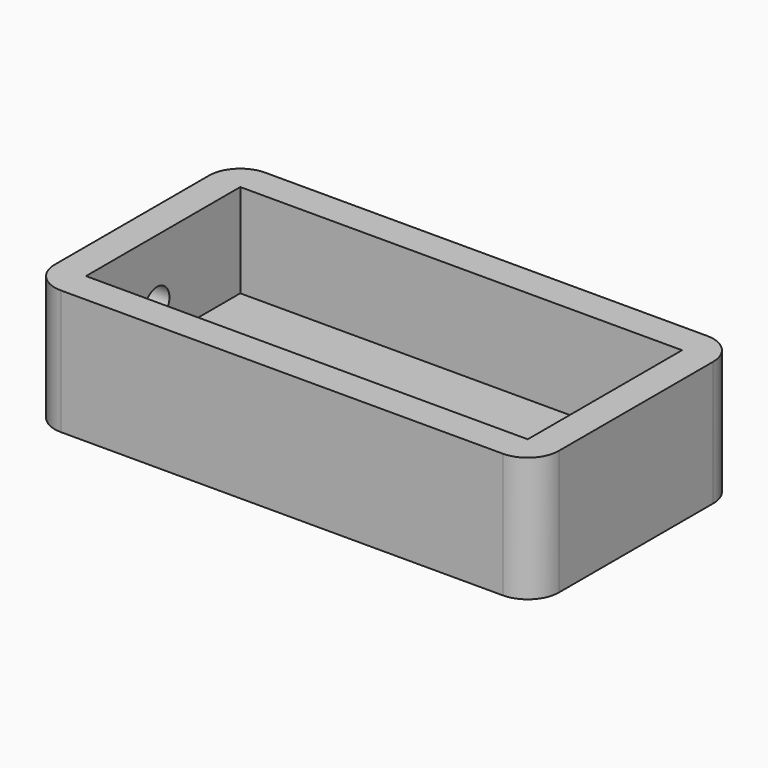
from build123d import *

# Parameters (mm, degrees)
F0_W     = 102.648225
F0_H     = 51.967123
F1_DEPTH = 25.4
F2_R     = 6.35
F3_W     = 89.948225
F3_H     = 39.267123
F4_DEPTH = 19.05
F6_D     = 6.35
F6_DEPTH = 12.7


with BuildPart() as f1:
    # F0 (on Top) → F1 (new body)
    with BuildSketch(Plane.XY):
        with Locations((2.532753, 1.564751)):
            Rectangle(F0_W, F0_H)
    extrude(amount=F1_DEPTH)

    # F2
    f2_edges = [f1.edges().sort_by_distance(p)[0] for p in [
        (-48.79136, -24.41881, 12.7),
        (-48.79136, 27.548313, 12.7),
        (53.856865, -24.41881, 12.7),
        (53.856865, 27.548313, 12.7),
    ]]
    fillet(f2_edges, radius=F2_R)

    # F3 (on face) → F4 (cut)
    with BuildSketch(Plane.XY.offset(25.4)):
        with Locations((2.532753, 1.564751)):
            Rectangle(F3_W, F3_H)
    extrude(amount=-F4_DEPTH, mode=Mode.SUBTRACT)

    # F6
    with Locations(Plane(origin=(-48.79136, 0, 0), x_dir=(0, -1, 0), z_dir=(-1, 0, 0))):
        with Locations((0, 12.951535)):
            Hole(F6_D / 2, depth=F6_DEPTH)


solid = f1.part
